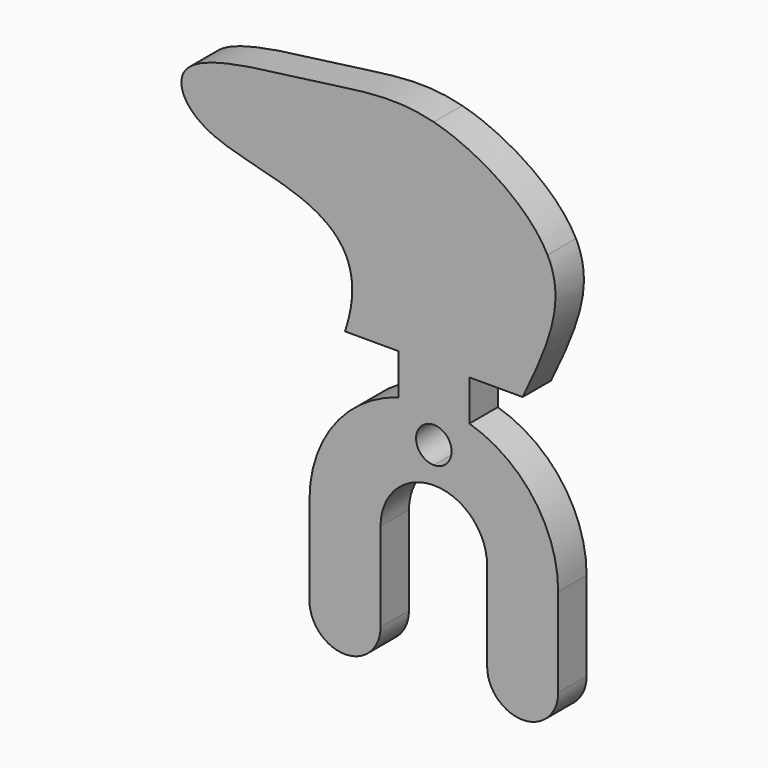
from build123d import *

# Parameters (mm, degrees)
F0_W     = 5
F0_H     = 10
F1_DEPTH = 5


with BuildPart() as f1:
    # F0 (on Front) → F1 (new body)
    with BuildSketch(Plane.XZ):
        with BuildLine():
            ThreePointArc((-5, 16.7705098312), (-14.0312152004, 10.4582503317), (-17.5, 0))
            Line((-17.5, 0), (-7.5, 0))
            ThreePointArc((-7.5, 0), (-5.3033008589, 5.3033008589), (0, 7.5))
            Line((0, 7.5), (-5, 7.5))
            Line((-5, 7.5), (-5, 16.7705098312))
        make_face()
        with BuildLine():
            ThreePointArc((-12.2474487139, -12.5), (-16.1335109709, -6.7793675039), (-17.5, 0))
            Line((-17.5, 0), (-17.5, -12.5))
            Line((-17.5, -12.5), (-12.2474487139, -12.5))
        make_face()
        with BuildLine():
            Line((-7.5, 0), (-17.5, 0))
            ThreePointArc((-17.5, 0), (-16.1335109709, -6.7793675039), (-12.2474487139, -12.5))
            Line((-12.2474487139, -12.5), (-7.5, -12.5))
            Line((-7.5, -12.5), (-7.5, 0))
        make_face()
        with BuildLine():
            Line((-12.2474487139, -12.5), (-17.5, -12.5))
            ThreePointArc((-17.5, -12.5), (-13.9959505951, -17.2709675976), (-8.3951472732, -15.3548527268))
            ThreePointArc((-8.3951472732, -15.3548527268), (-10.4195363762, -14.0599879696), (-12.2474487139, -12.5))
        make_face()
        with BuildLine():
            Line((-5, 22.5), (-5, 16.7705098312))
            ThreePointArc((-5, 16.7705098312), (-2.5264676876, 17.3166671454), (0, 17.5))
            Line((0, 17.5), (0, 22.5))
            Line((0, 22.5), (-5, 22.5))
        make_face()
        with BuildLine():
            ThreePointArc((0, 17.5), (-2.5264676876, 17.3166671454), (-5, 16.7705098312))
            Line((-5, 16.7705098312), (-5, 7.5))
            Line((-5, 7.5), (0, 7.5))
            Line((0, 7.5), (0, 10))
            ThreePointArc((0, 10), (-2.5, 12.5), (0, 15))
            Line((0, 15), (0, 17.5))
        make_face()
        with BuildLine():
            Line((-7.5, -12.5), (-12.2474487139, -12.5))
            ThreePointArc((-12.2474487139, -12.5), (-10.4195363762, -14.0599879696), (-8.3951472732, -15.3548527268))
            ThreePointArc((-8.3951472732, -15.3548527268), (-7.7290324024, -13.9959505951), (-7.5, -12.5))
        make_face()
        with BuildLine():
            Line((5, 7.5), (0, 7.5))
            ThreePointArc((0, 7.5), (5.3033008589, 5.3033008589), (7.5, 0))
            Line((7.5, 0), (17.5, 0))
            ThreePointArc((17.5, 0), (14.0312152004, 10.4582503317), (5, 16.7705098312))
            Line((5, 16.7705098312), (5, 7.5))
        make_face()
        with BuildLine():
            Line((0, 10), (0, 7.5))
            Line((0, 7.5), (5, 7.5))
            Line((5, 7.5), (5, 16.7705098312))
            ThreePointArc((5, 16.7705098312), (2.5264676876, 17.3166671454), (0, 17.5))
            Line((0, 17.5), (0, 15))
            ThreePointArc((0, 15), (1.767766953, 14.267766953), (2.5, 12.5))
            ThreePointArc((2.5, 12.5), (1.767766953, 10.732233047), (0, 10))
        make_face()
        with BuildLine():
            Line((0, 22.5), (0, 17.5))
            ThreePointArc((0, 17.5), (2.5264676876, 17.3166671454), (5, 16.7705098312))
            Line((5, 16.7705098312), (5, 22.5))
            Line((5, 22.5), (0, 22.5))
        make_face()
        with BuildLine():
            Line((-12.5, 22.5), (-5, 22.5))
            Line((-5, 22.5), (-5, 32.5))
            Line((-5, 32.5), (0, 32.5))
            Line((0, 32.5), (0, 35))
            Line((0, 35), (-8.75, 41.25))
            Line((-8.75, 41.25), (-16.2746694241, 35.8752361256))
            add(Edge.make_bspline(
                [(-16.2746694241, 35.8752361256), (-12.3598618618, 33.6329716306), (-10.0386444447, 29.8865768576), (-12.5, 22.5)],
                knots=[0.904225906, 0.904225906, 0.904225906, 0.904225906, 1, 1, 1, 1], degree=3))
        make_face()
        with Locations((-2.5, 27.5)):
            Rectangle(F0_W, F0_H)
        with BuildLine():
            Line((17.5, 0), (7.5, 0))
            Line((7.5, 0), (7.5, -12.5))
            Line((7.5, -12.5), (12.2474487139, -12.5))
            ThreePointArc((12.2474487139, -12.5), (16.1335109709, -6.7793675039), (17.5, 0))
        make_face()
        with Locations((2.5, 27.5)):
            Rectangle(F0_W, F0_H)
        with BuildLine():
            Line((17.5, -12.5), (17.5, 0))
            ThreePointArc((17.5, 0), (16.1335109709, -6.7793675039), (12.2474487139, -12.5))
            Line((12.2474487139, -12.5), (17.5, -12.5))
        make_face()
        with BuildLine():
            Line((12.2474487139, -12.5), (7.5, -12.5))
            ThreePointArc((7.5, -12.5), (7.7290324024, -13.9959505951), (8.3951472732, -15.3548527268))
            ThreePointArc((8.3951472732, -15.3548527268), (10.4195363762, -14.0599879696), (12.2474487139, -12.5))
        make_face()
        with BuildLine():
            Line((5, 32.5), (5, 22.5))
            Line((5, 22.5), (12.5, 22.5))
            add(Edge.make_bspline(
                [(12.5, 22.5), (16.53182565, 30.8636820514), (18.537557056, 36.2729908565), (16, 41.25)],
                knots=[0, 0, 0, 0, 0.1737998843, 0.1737998843, 0.1737998843, 0.1737998843], degree=3))
            Line((16, 41.25), (0, 41.25))
            Line((0, 41.25), (0, 35))
            Line((0, 35), (0, 32.5))
            Line((0, 32.5), (5, 32.5))
        make_face()
        with BuildLine():
            add(Edge.make_bspline(
                [(-30.8810526687, 40.7215466751), (-26.9732572447, 39.0042580115), (-20.6353376436, 38.3728739705), (-16.2746694241, 35.8752361256)],
                knots=[0.7975440215, 0.7975440215, 0.7975440215, 0.7975440215, 0.904225906, 0.904225906, 0.904225906, 0.904225906], degree=3))
            Line((-16.2746694241, 35.8752361256), (-8.75, 41.25))
            Line((-8.75, 41.25), (-17.5, 47.5))
            Line((-17.5, 47.5), (-30.8810526687, 40.7215466751))
        make_face()
        with BuildLine():
            ThreePointArc((8.3951472732, -15.3548527268), (13.9959505951, -17.2709675976), (17.5, -12.5))
            Line((17.5, -12.5), (12.2474487139, -12.5))
            ThreePointArc((12.2474487139, -12.5), (10.4195363762, -14.0599879696), (8.3951472732, -15.3548527268))
        make_face()
        with BuildLine():
            add(Edge.make_bspline(
                [(-35, 47.5), (-36.4097549138, 45.5283174858), (-34.986463175, 42.5256776894), (-30.8810526687, 40.7215466751)],
                knots=[0.6854672924, 0.6854672924, 0.6854672924, 0.6854672924, 0.7975440215, 0.7975440215, 0.7975440215, 0.7975440215], degree=3))
            Line((-30.8810526687, 40.7215466751), (-35, 47.5))
        make_face()
        Polygon((-30.8810526687, 47.5), (-30.8810526687, 40.7215466751), (-17.5, 47.5), align=None)
        Polygon((-35, 47.5), (-30.8810526687, 40.7215466751), (-30.8810526687, 47.5), align=None)
        with BuildLine():
            Line((0, 41.25), (16, 41.25))
            add(Edge.make_bspline(
                [(16, 41.25), (13.4303616154, 46.2899314985), (6.2018305977, 50.8865634518), (0, 52.5)],
                knots=[0.1737998843, 0.1737998843, 0.1737998843, 0.1737998843, 0.3497970518, 0.3497970518, 0.3497970518, 0.3497970518], degree=3))
            Line((0, 52.5), (0, 47.5))
            Line((0, 47.5), (0, 41.25))
        make_face()
        with BuildLine():
            add(Edge.make_bspline(
                [(0, 52.5), (-5.8674840792, 54.0264546669), (-15.8433075246, 51.7207215847), (-32.8722086235, 50.4759279501), (-35, 47.5)],
                knots=[0.3497970518, 0.3497970518, 0.3497970518, 0.3497970518, 0.5163060464, 0.6854672924, 0.6854672924, 0.6854672924, 0.6854672924], degree=3))
            Line((-35, 47.5), (-30.8810526687, 47.5))
            Line((-30.8810526687, 47.5), (-17.5, 47.5))
            Line((-17.5, 47.5), (0, 47.5))
            Line((0, 47.5), (0, 52.5))
        make_face()
        Polygon((-17.5, 47.5), (-8.75, 41.25), (0, 47.5), align=None)
        Polygon((-8.75, 41.25), (0, 35), (0, 41.25), (0, 47.5), align=None)
    extrude(amount=F1_DEPTH)


solid = f1.part
